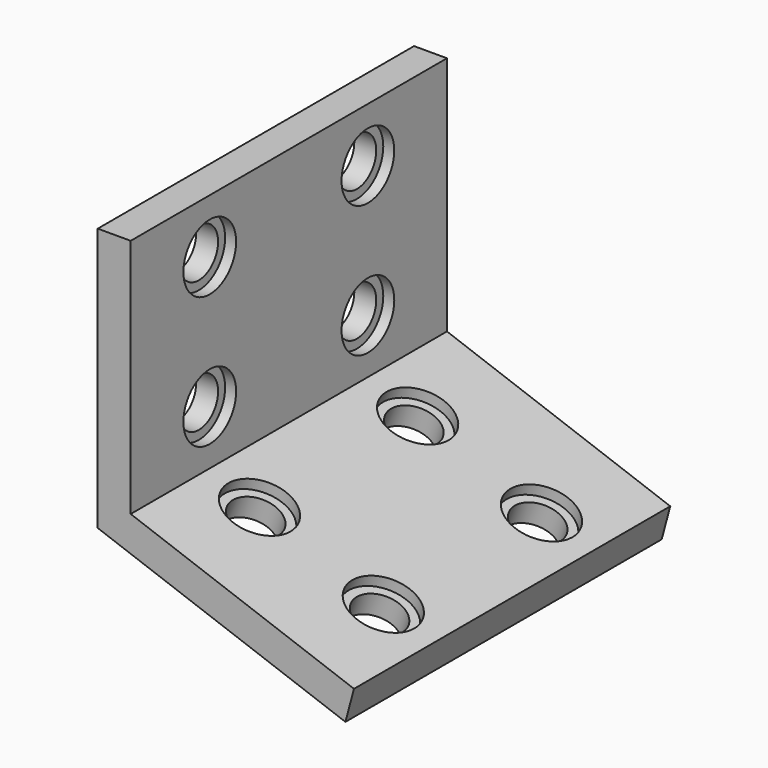
from build123d import *

# Parameters (mm, degrees)
F1_DEPTH = 36
F2_R     = 2.2
F4_DEPTH = 3.001
F3_R     = 2.2
F5_DEPTH = 10.7144513162
F3_R_2   = 3
F6_DEPTH = 1
F2_R_2   = 3
F7_DEPTH = 1


with BuildPart() as f1:
    # F0 (on Front) → F1 (new body)
    with BuildSketch(Plane.XZ):
        Polygon((0, 24), (0, 0), (22.5526228989, -8.2084834398), (23.3320459743, -5.2996369217), (3, 2.1006226146), (3, 24), align=None)
    extrude(amount=F1_DEPTH)

    # F2 (on face) → F4 (cut, through all)
    with BuildSketch(Plane.YZ.offset(3)):
        with Locations((-27, 19.0503113073)):
            Circle(F2_R)
        with Locations((-27, 7.0503113073)):
            Circle(F2_R)
        with Locations((-9, 7.0503113073)):
            Circle(F2_R)
        with Locations((-9, 19.0503113073)):
            Circle(F2_R)
    extrude(amount=-F4_DEPTH, mode=Mode.SUBTRACT)

    # F3 (on face) → F5 (cut, through all)
    with BuildSketch(Plane(origin=(1.02606043, 0, 2.8190778624), x_dir=(0.9396926208, 0, -0.3420201433), z_dir=(0.3420201433, 0, 0.9396926208))):
        with Locations((6.919078312, -27)):
            Circle(F3_R)
        with Locations((18.919078312, -27)):
            Circle(F3_R)
        with Locations((6.919078312, -9)):
            Circle(F3_R)
        with Locations((18.919078312, -9)):
            Circle(F3_R)
    extrude(amount=-F5_DEPTH, mode=Mode.SUBTRACT)

    # F3 (on face) → F6 (cut)
    with BuildSketch(Plane(origin=(1.02606043, 0, 2.8190778624), x_dir=(0.9396926208, 0, -0.3420201433), z_dir=(0.3420201433, 0, 0.9396926208))):
        with Locations((6.919078312, -27)):
            Circle(F3_R_2)
        with Locations((6.919078312, -27)):
            Circle(F3_R, mode=Mode.SUBTRACT)
        with Locations((18.919078312, -27)):
            Circle(F3_R_2)
        with Locations((18.919078312, -27)):
            Circle(F3_R, mode=Mode.SUBTRACT)
        with Locations((18.919078312, -9)):
            Circle(F3_R_2)
        with Locations((18.919078312, -9)):
            Circle(F3_R, mode=Mode.SUBTRACT)
        with Locations((6.919078312, -9)):
            Circle(F3_R_2)
        with Locations((6.919078312, -9)):
            Circle(F3_R, mode=Mode.SUBTRACT)
    extrude(amount=-F6_DEPTH, mode=Mode.SUBTRACT)

    # F2 (on face) → F7 (cut)
    with BuildSketch(Plane.YZ.offset(3)):
        with Locations((-27, 19.0503113073)):
            Circle(F2_R_2)
        with Locations((-27, 19.0503113073)):
            Circle(F2_R, mode=Mode.SUBTRACT)
        with Locations((-9, 7.0503113073)):
            Circle(F2_R_2)
        with Locations((-9, 7.0503113073)):
            Circle(F2_R, mode=Mode.SUBTRACT)
        with Locations((-9, 19.0503113073)):
            Circle(F2_R_2)
        with Locations((-9, 19.0503113073)):
            Circle(F2_R, mode=Mode.SUBTRACT)
        with Locations((-27, 7.0503113073)):
            Circle(F2_R_2)
        with Locations((-27, 7.0503113073)):
            Circle(F2_R, mode=Mode.SUBTRACT)
    extrude(amount=-F7_DEPTH, mode=Mode.SUBTRACT)


solid = f1.part
